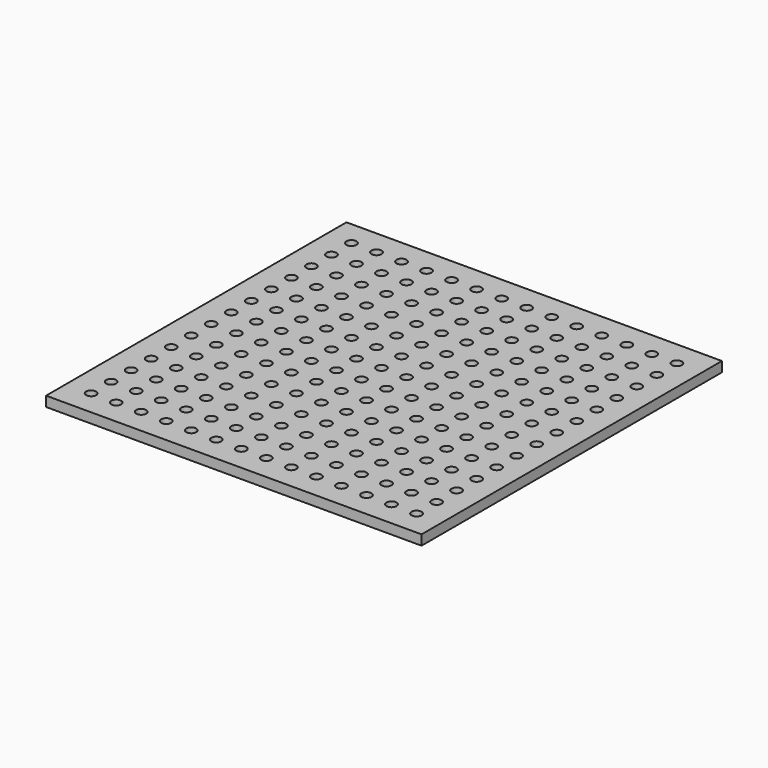
from build123d import *

# Parameters (mm, degrees)
F0_W     = 300
F0_H     = 300
F0_R     = 4
F1_DEPTH = 8


with BuildPart() as f1:
    # F0 (on Top) → F1 (new body)
    with BuildSketch(Plane.XY):
        Rectangle(F0_W, F0_H)
        with Locations((-130, -130)):
            Circle(F0_R, mode=Mode.SUBTRACT)
        with Locations((-110, -130)):
            Circle(F0_R, mode=Mode.SUBTRACT)
        with Locations((-90, -130)):
            Circle(F0_R, mode=Mode.SUBTRACT)
        with Locations((-130, -110)):
            Circle(F0_R, mode=Mode.SUBTRACT)
        with Locations((-130, -90)):
            Circle(F0_R, mode=Mode.SUBTRACT)
        with Locations((-110, -110)):
            Circle(F0_R, mode=Mode.SUBTRACT)
        with Locations((-90, -110)):
            Circle(F0_R, mode=Mode.SUBTRACT)
        with Locations((-110, -90)):
            Circle(F0_R, mode=Mode.SUBTRACT)
        with Locations((-90, -90)):
            Circle(F0_R, mode=Mode.SUBTRACT)
        with Locations((-70, -130)):
            Circle(F0_R, mode=Mode.SUBTRACT)
        with Locations((-50, -130)):
            Circle(F0_R, mode=Mode.SUBTRACT)
        with Locations((-30, -130)):
            Circle(F0_R, mode=Mode.SUBTRACT)
        with Locations((-10, -130)):
            Circle(F0_R, mode=Mode.SUBTRACT)
        with Locations((-70, -110)):
            Circle(F0_R, mode=Mode.SUBTRACT)
        with Locations((-50, -110)):
            Circle(F0_R, mode=Mode.SUBTRACT)
        with Locations((-70, -90)):
            Circle(F0_R, mode=Mode.SUBTRACT)
        with Locations((-50, -90)):
            Circle(F0_R, mode=Mode.SUBTRACT)
        with Locations((-30, -110)):
            Circle(F0_R, mode=Mode.SUBTRACT)
        with Locations((-10, -110)):
            Circle(F0_R, mode=Mode.SUBTRACT)
        with Locations((-30, -90)):
            Circle(F0_R, mode=Mode.SUBTRACT)
        with Locations((-10, -90)):
            Circle(F0_R, mode=Mode.SUBTRACT)
        with Locations((-130, -70)):
            Circle(F0_R, mode=Mode.SUBTRACT)
        with Locations((-130, -50)):
            Circle(F0_R, mode=Mode.SUBTRACT)
        with Locations((-110, -70)):
            Circle(F0_R, mode=Mode.SUBTRACT)
        with Locations((-90, -70)):
            Circle(F0_R, mode=Mode.SUBTRACT)
        with Locations((-110, -50)):
            Circle(F0_R, mode=Mode.SUBTRACT)
        with Locations((-90, -50)):
            Circle(F0_R, mode=Mode.SUBTRACT)
        with Locations((-130, -30)):
            Circle(F0_R, mode=Mode.SUBTRACT)
        with Locations((-130, -10)):
            Circle(F0_R, mode=Mode.SUBTRACT)
        with Locations((-110, -30)):
            Circle(F0_R, mode=Mode.SUBTRACT)
        with Locations((-90, -30)):
            Circle(F0_R, mode=Mode.SUBTRACT)
        with Locations((-110, -10)):
            Circle(F0_R, mode=Mode.SUBTRACT)
        with Locations((-90, -10)):
            Circle(F0_R, mode=Mode.SUBTRACT)
        with Locations((-70, -70)):
            Circle(F0_R, mode=Mode.SUBTRACT)
        with Locations((-50, -70)):
            Circle(F0_R, mode=Mode.SUBTRACT)
        with Locations((-70, -50)):
            Circle(F0_R, mode=Mode.SUBTRACT)
        with Locations((-50, -50)):
            Circle(F0_R, mode=Mode.SUBTRACT)
        with Locations((-30, -70)):
            Circle(F0_R, mode=Mode.SUBTRACT)
        with Locations((-10, -70)):
            Circle(F0_R, mode=Mode.SUBTRACT)
        with Locations((-30, -50)):
            Circle(F0_R, mode=Mode.SUBTRACT)
        with Locations((-10, -50)):
            Circle(F0_R, mode=Mode.SUBTRACT)
        with Locations((-70, -30)):
            Circle(F0_R, mode=Mode.SUBTRACT)
        with Locations((-50, -30)):
            Circle(F0_R, mode=Mode.SUBTRACT)
        with Locations((-70, -10)):
            Circle(F0_R, mode=Mode.SUBTRACT)
        with Locations((-50, -10)):
            Circle(F0_R, mode=Mode.SUBTRACT)
        with Locations((-30, -30)):
            Circle(F0_R, mode=Mode.SUBTRACT)
        with Locations((-10, -30)):
            Circle(F0_R, mode=Mode.SUBTRACT)
        with Locations((-30, -10)):
            Circle(F0_R, mode=Mode.SUBTRACT)
        with Locations((-10, -10)):
            Circle(F0_R, mode=Mode.SUBTRACT)
        with Locations((10, -130)):
            Circle(F0_R, mode=Mode.SUBTRACT)
        with Locations((30, -130)):
            Circle(F0_R, mode=Mode.SUBTRACT)
        with Locations((50, -130)):
            Circle(F0_R, mode=Mode.SUBTRACT)
        with Locations((70, -130)):
            Circle(F0_R, mode=Mode.SUBTRACT)
        with Locations((10, -110)):
            Circle(F0_R, mode=Mode.SUBTRACT)
        with Locations((30, -110)):
            Circle(F0_R, mode=Mode.SUBTRACT)
        with Locations((10, -90)):
            Circle(F0_R, mode=Mode.SUBTRACT)
        with Locations((30, -90)):
            Circle(F0_R, mode=Mode.SUBTRACT)
        with Locations((50, -110)):
            Circle(F0_R, mode=Mode.SUBTRACT)
        with Locations((70, -110)):
            Circle(F0_R, mode=Mode.SUBTRACT)
        with Locations((50, -90)):
            Circle(F0_R, mode=Mode.SUBTRACT)
        with Locations((70, -90)):
            Circle(F0_R, mode=Mode.SUBTRACT)
        with Locations((90, -130)):
            Circle(F0_R, mode=Mode.SUBTRACT)
        with Locations((110, -130)):
            Circle(F0_R, mode=Mode.SUBTRACT)
        with Locations((130, -130)):
            Circle(F0_R, mode=Mode.SUBTRACT)
        with Locations((90, -110)):
            Circle(F0_R, mode=Mode.SUBTRACT)
        with Locations((110, -110)):
            Circle(F0_R, mode=Mode.SUBTRACT)
        with Locations((90, -90)):
            Circle(F0_R, mode=Mode.SUBTRACT)
        with Locations((110, -90)):
            Circle(F0_R, mode=Mode.SUBTRACT)
        with Locations((130, -110)):
            Circle(F0_R, mode=Mode.SUBTRACT)
        with Locations((130, -90)):
            Circle(F0_R, mode=Mode.SUBTRACT)
        with Locations((10, -70)):
            Circle(F0_R, mode=Mode.SUBTRACT)
        with Locations((30, -70)):
            Circle(F0_R, mode=Mode.SUBTRACT)
        with Locations((10, -50)):
            Circle(F0_R, mode=Mode.SUBTRACT)
        with Locations((30, -50)):
            Circle(F0_R, mode=Mode.SUBTRACT)
        with Locations((50, -70)):
            Circle(F0_R, mode=Mode.SUBTRACT)
        with Locations((70, -70)):
            Circle(F0_R, mode=Mode.SUBTRACT)
        with Locations((50, -50)):
            Circle(F0_R, mode=Mode.SUBTRACT)
        with Locations((70, -50)):
            Circle(F0_R, mode=Mode.SUBTRACT)
        with Locations((10, -30)):
            Circle(F0_R, mode=Mode.SUBTRACT)
        with Locations((30, -30)):
            Circle(F0_R, mode=Mode.SUBTRACT)
        with Locations((10, -10)):
            Circle(F0_R, mode=Mode.SUBTRACT)
        with Locations((30, -10)):
            Circle(F0_R, mode=Mode.SUBTRACT)
        with Locations((50, -30)):
            Circle(F0_R, mode=Mode.SUBTRACT)
        with Locations((70, -30)):
            Circle(F0_R, mode=Mode.SUBTRACT)
        with Locations((50, -10)):
            Circle(F0_R, mode=Mode.SUBTRACT)
        with Locations((70, -10)):
            Circle(F0_R, mode=Mode.SUBTRACT)
        with Locations((90, -70)):
            Circle(F0_R, mode=Mode.SUBTRACT)
        with Locations((110, -70)):
            Circle(F0_R, mode=Mode.SUBTRACT)
        with Locations((90, -50)):
            Circle(F0_R, mode=Mode.SUBTRACT)
        with Locations((110, -50)):
            Circle(F0_R, mode=Mode.SUBTRACT)
        with Locations((130, -70)):
            Circle(F0_R, mode=Mode.SUBTRACT)
        with Locations((130, -50)):
            Circle(F0_R, mode=Mode.SUBTRACT)
        with Locations((90, -30)):
            Circle(F0_R, mode=Mode.SUBTRACT)
        with Locations((110, -30)):
            Circle(F0_R, mode=Mode.SUBTRACT)
        with Locations((90, -10)):
            Circle(F0_R, mode=Mode.SUBTRACT)
        with Locations((110, -10)):
            Circle(F0_R, mode=Mode.SUBTRACT)
        with Locations((130, -30)):
            Circle(F0_R, mode=Mode.SUBTRACT)
        with Locations((130, -10)):
            Circle(F0_R, mode=Mode.SUBTRACT)
        with Locations((-130, 10)):
            Circle(F0_R, mode=Mode.SUBTRACT)
        with Locations((-130, 30)):
            Circle(F0_R, mode=Mode.SUBTRACT)
        with Locations((-110, 10)):
            Circle(F0_R, mode=Mode.SUBTRACT)
        with Locations((-90, 10)):
            Circle(F0_R, mode=Mode.SUBTRACT)
        with Locations((-110, 30)):
            Circle(F0_R, mode=Mode.SUBTRACT)
        with Locations((-90, 30)):
            Circle(F0_R, mode=Mode.SUBTRACT)
        with Locations((-130, 50)):
            Circle(F0_R, mode=Mode.SUBTRACT)
        with Locations((-130, 70)):
            Circle(F0_R, mode=Mode.SUBTRACT)
        with Locations((-110, 50)):
            Circle(F0_R, mode=Mode.SUBTRACT)
        with Locations((-90, 50)):
            Circle(F0_R, mode=Mode.SUBTRACT)
        with Locations((-110, 70)):
            Circle(F0_R, mode=Mode.SUBTRACT)
        with Locations((-90, 70)):
            Circle(F0_R, mode=Mode.SUBTRACT)
        with Locations((-70, 10)):
            Circle(F0_R, mode=Mode.SUBTRACT)
        with Locations((-50, 10)):
            Circle(F0_R, mode=Mode.SUBTRACT)
        with Locations((-70, 30)):
            Circle(F0_R, mode=Mode.SUBTRACT)
        with Locations((-50, 30)):
            Circle(F0_R, mode=Mode.SUBTRACT)
        with Locations((-30, 10)):
            Circle(F0_R, mode=Mode.SUBTRACT)
        with Locations((-10, 10)):
            Circle(F0_R, mode=Mode.SUBTRACT)
        with Locations((-30, 30)):
            Circle(F0_R, mode=Mode.SUBTRACT)
        with Locations((-10, 30)):
            Circle(F0_R, mode=Mode.SUBTRACT)
        with Locations((-70, 50)):
            Circle(F0_R, mode=Mode.SUBTRACT)
        with Locations((-50, 50)):
            Circle(F0_R, mode=Mode.SUBTRACT)
        with Locations((-70, 70)):
            Circle(F0_R, mode=Mode.SUBTRACT)
        with Locations((-50, 70)):
            Circle(F0_R, mode=Mode.SUBTRACT)
        with Locations((-30, 50)):
            Circle(F0_R, mode=Mode.SUBTRACT)
        with Locations((-10, 50)):
            Circle(F0_R, mode=Mode.SUBTRACT)
        with Locations((-30, 70)):
            Circle(F0_R, mode=Mode.SUBTRACT)
        with Locations((-10, 70)):
            Circle(F0_R, mode=Mode.SUBTRACT)
        with Locations((-130, 90)):
            Circle(F0_R, mode=Mode.SUBTRACT)
        with Locations((-130, 110)):
            Circle(F0_R, mode=Mode.SUBTRACT)
        with Locations((-110, 90)):
            Circle(F0_R, mode=Mode.SUBTRACT)
        with Locations((-90, 90)):
            Circle(F0_R, mode=Mode.SUBTRACT)
        with Locations((-110, 110)):
            Circle(F0_R, mode=Mode.SUBTRACT)
        with Locations((-90, 110)):
            Circle(F0_R, mode=Mode.SUBTRACT)
        with Locations((-130, 130)):
            Circle(F0_R, mode=Mode.SUBTRACT)
        with Locations((-110, 130)):
            Circle(F0_R, mode=Mode.SUBTRACT)
        with Locations((-90, 130)):
            Circle(F0_R, mode=Mode.SUBTRACT)
        with Locations((-70, 90)):
            Circle(F0_R, mode=Mode.SUBTRACT)
        with Locations((-50, 90)):
            Circle(F0_R, mode=Mode.SUBTRACT)
        with Locations((-70, 110)):
            Circle(F0_R, mode=Mode.SUBTRACT)
        with Locations((-50, 110)):
            Circle(F0_R, mode=Mode.SUBTRACT)
        with Locations((-30, 90)):
            Circle(F0_R, mode=Mode.SUBTRACT)
        with Locations((-10, 90)):
            Circle(F0_R, mode=Mode.SUBTRACT)
        with Locations((-30, 110)):
            Circle(F0_R, mode=Mode.SUBTRACT)
        with Locations((-10, 110)):
            Circle(F0_R, mode=Mode.SUBTRACT)
        with Locations((-70, 130)):
            Circle(F0_R, mode=Mode.SUBTRACT)
        with Locations((-50, 130)):
            Circle(F0_R, mode=Mode.SUBTRACT)
        with Locations((-30, 130)):
            Circle(F0_R, mode=Mode.SUBTRACT)
        with Locations((-10, 130)):
            Circle(F0_R, mode=Mode.SUBTRACT)
        with Locations((10, 10)):
            Circle(F0_R, mode=Mode.SUBTRACT)
        with Locations((30, 10)):
            Circle(F0_R, mode=Mode.SUBTRACT)
        with Locations((10, 30)):
            Circle(F0_R, mode=Mode.SUBTRACT)
        with Locations((30, 30)):
            Circle(F0_R, mode=Mode.SUBTRACT)
        with Locations((50, 10)):
            Circle(F0_R, mode=Mode.SUBTRACT)
        with Locations((70, 10)):
            Circle(F0_R, mode=Mode.SUBTRACT)
        with Locations((50, 30)):
            Circle(F0_R, mode=Mode.SUBTRACT)
        with Locations((70, 30)):
            Circle(F0_R, mode=Mode.SUBTRACT)
        with Locations((10, 50)):
            Circle(F0_R, mode=Mode.SUBTRACT)
        with Locations((30, 50)):
            Circle(F0_R, mode=Mode.SUBTRACT)
        with Locations((10, 70)):
            Circle(F0_R, mode=Mode.SUBTRACT)
        with Locations((30, 70)):
            Circle(F0_R, mode=Mode.SUBTRACT)
        with Locations((50, 50)):
            Circle(F0_R, mode=Mode.SUBTRACT)
        with Locations((70, 50)):
            Circle(F0_R, mode=Mode.SUBTRACT)
        with Locations((50, 70)):
            Circle(F0_R, mode=Mode.SUBTRACT)
        with Locations((70, 70)):
            Circle(F0_R, mode=Mode.SUBTRACT)
        with Locations((90, 10)):
            Circle(F0_R, mode=Mode.SUBTRACT)
        with Locations((110, 10)):
            Circle(F0_R, mode=Mode.SUBTRACT)
        with Locations((90, 30)):
            Circle(F0_R, mode=Mode.SUBTRACT)
        with Locations((110, 30)):
            Circle(F0_R, mode=Mode.SUBTRACT)
        with Locations((130, 10)):
            Circle(F0_R, mode=Mode.SUBTRACT)
        with Locations((130, 30)):
            Circle(F0_R, mode=Mode.SUBTRACT)
        with Locations((90, 50)):
            Circle(F0_R, mode=Mode.SUBTRACT)
        with Locations((110, 50)):
            Circle(F0_R, mode=Mode.SUBTRACT)
        with Locations((90, 70)):
            Circle(F0_R, mode=Mode.SUBTRACT)
        with Locations((110, 70)):
            Circle(F0_R, mode=Mode.SUBTRACT)
        with Locations((130, 50)):
            Circle(F0_R, mode=Mode.SUBTRACT)
        with Locations((130, 70)):
            Circle(F0_R, mode=Mode.SUBTRACT)
        with Locations((10, 90)):
            Circle(F0_R, mode=Mode.SUBTRACT)
        with Locations((30, 90)):
            Circle(F0_R, mode=Mode.SUBTRACT)
        with Locations((10, 110)):
            Circle(F0_R, mode=Mode.SUBTRACT)
        with Locations((30, 110)):
            Circle(F0_R, mode=Mode.SUBTRACT)
        with Locations((50, 90)):
            Circle(F0_R, mode=Mode.SUBTRACT)
        with Locations((70, 90)):
            Circle(F0_R, mode=Mode.SUBTRACT)
        with Locations((50, 110)):
            Circle(F0_R, mode=Mode.SUBTRACT)
        with Locations((70, 110)):
            Circle(F0_R, mode=Mode.SUBTRACT)
        with Locations((10, 130)):
            Circle(F0_R, mode=Mode.SUBTRACT)
        with Locations((30, 130)):
            Circle(F0_R, mode=Mode.SUBTRACT)
        with Locations((50, 130)):
            Circle(F0_R, mode=Mode.SUBTRACT)
        with Locations((70, 130)):
            Circle(F0_R, mode=Mode.SUBTRACT)
        with Locations((90, 90)):
            Circle(F0_R, mode=Mode.SUBTRACT)
        with Locations((110, 90)):
            Circle(F0_R, mode=Mode.SUBTRACT)
        with Locations((90, 110)):
            Circle(F0_R, mode=Mode.SUBTRACT)
        with Locations((110, 110)):
            Circle(F0_R, mode=Mode.SUBTRACT)
        with Locations((130, 90)):
            Circle(F0_R, mode=Mode.SUBTRACT)
        with Locations((130, 110)):
            Circle(F0_R, mode=Mode.SUBTRACT)
        with Locations((90, 130)):
            Circle(F0_R, mode=Mode.SUBTRACT)
        with Locations((110, 130)):
            Circle(F0_R, mode=Mode.SUBTRACT)
        with Locations((130, 130)):
            Circle(F0_R, mode=Mode.SUBTRACT)
    extrude(amount=F1_DEPTH)


solid = f1.part
